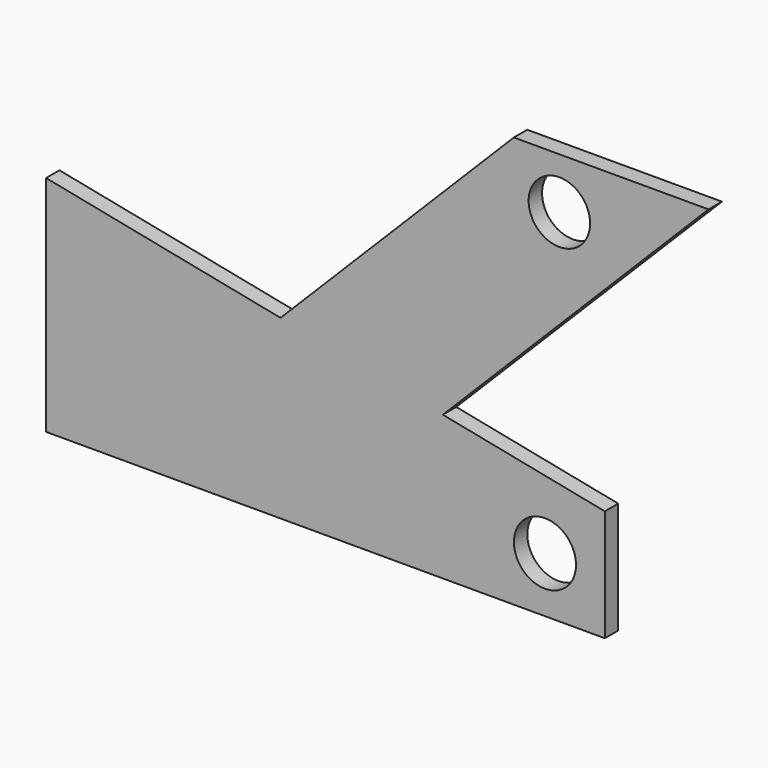
from build123d import *

# Parameters (mm, degrees)
F0_R     = 5.5
F0_R_2   = 5.558068
F1_DEPTH = 3


with BuildPart() as f1:
    # F0 (on Front) → F1 (new body)
    with BuildSketch(Plane.XZ):
        Polygon((-16.282326, 73.609918), (-58.044596, 31.608919), (-28.985458, 25.797092), (18.555606, 73.609918), align=None)
        with Locations((-8.135774, 64.493537)):
            Circle(F0_R, mode=Mode.SUBTRACT)
        Polygon((-100, 40), (-100, 0), (0, 0), (0, 20), (-28.985458, 25.797092), (-58.044596, 31.608919), align=None)
        with Locations((-10.714968, 9.880378)):
            Circle(F0_R_2, mode=Mode.SUBTRACT)
    extrude(amount=F1_DEPTH)


solid = f1.part
